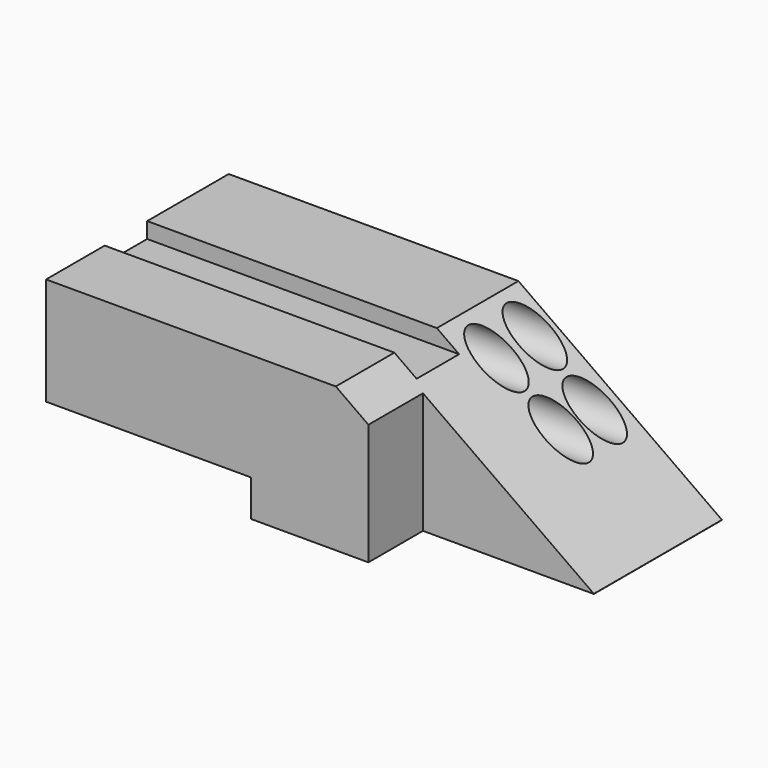
from build123d import *

# Parameters (mm, degrees)
F1_DEPTH = 38.1
F3_DEPTH = 60.292894
F5_R     = 5.25769
F5_W     = 14.030187
F5_H     = 4.162106
F6_DEPTH = 130.254248
F4_W     = 54.139016
F4_H     = 9.669455
F7_DEPTH = 60.292894


with BuildPart() as f1:
    # F0 (on Top) → F1 (new body)
    with BuildSketch(Plane.XY):
        Polygon((82.095571, 21.614075), (-48.157677, 21.614075), (-48.157677, -38.677819), (36.971442, -38.677819), (36.971442, -20.666091), (82.095571, -20.666091), align=None)
    extrude(amount=F1_DEPTH)

    # F2 (on face) → F3 (cut, through all)
    with BuildSketch(Plane.XZ.offset(38.677819)):
        Polygon((82.158446, 38.1), (28.353805, 38.1), (82.158446, 0), align=None)
    extrude(amount=-F3_DEPTH, mode=Mode.SUBTRACT)

    # F5 (on face) → F6 (cut, through all)
    with BuildSketch(Plane(origin=(-48.157677, 0, 0), x_dir=(0, -1, 0), z_dir=(-1, 0, 0))):
        with Locations((-14.877267, 31.217162)):
            Circle(F5_R)
        with Locations((-2.21119, 31.217162)):
            Circle(F5_R)
        with Locations((-2.990069, 19.638609)):
            Circle(F5_R)
        with Locations((-14.2001, 19.638609)):
            Circle(F5_R)
        with Locations((12.323814, 36.018947)):
            Rectangle(F5_W, F5_H)
    extrude(amount=-F6_DEPTH, mode=Mode.SUBTRACT)

    # F4 (on face) → F7 (cut, through all)
    with BuildSketch(Plane.XZ.offset(38.677819)):
        with Locations((-21.088169, 4.834727)):
            Rectangle(F4_W, F4_H)
    extrude(amount=-F7_DEPTH, mode=Mode.SUBTRACT)


solid = f1.part
